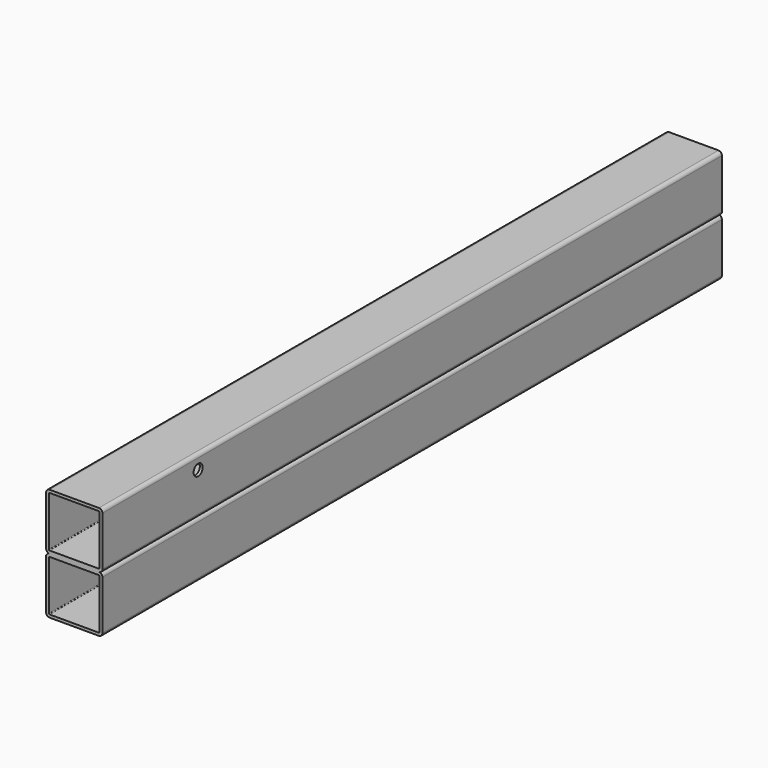
from build123d import *

# Parameters (mm, degrees)
F1_DEPTH = 1100
F2_R     = 8
F3_DEPTH = 80.001


with BuildPart() as f1:
    # F0 (on Front) → F1 (new body)
    with BuildSketch(Plane.XZ):
        with BuildLine():
            ThreePointArc((40, 35), (38.535534, 38.535534), (35, 40))
            Line((35, 40), (-35, 40))
            ThreePointArc((-35, 40), (-38.535534, 38.535534), (-40, 35))
            Line((-40, 35), (-40, -35))
            ThreePointArc((-40, -35), (-38.535534, -38.535534), (-35, -40))
            Line((-35, -40), (35, -40))
            ThreePointArc((35, -40), (38.535534, -38.535534), (40, -35))
            Line((40, -35), (40, 35))
        make_face()
        with BuildLine():
            ThreePointArc((-36, 35), (-35.707107, 35.707107), (-35, 36))
            Line((-35, 36), (35, 36))
            ThreePointArc((35, 36), (35.707107, 35.707107), (36, 35))
            Line((36, 35), (36, -35))
            ThreePointArc((36, -35), (35.707107, -35.707107), (35, -36))
            Line((35, -36), (-35, -36))
            ThreePointArc((-35, -36), (-35.707107, -35.707107), (-36, -35))
            Line((-36, -35), (-36, 35))
        make_face(mode=Mode.SUBTRACT)
        with BuildLine():
            ThreePointArc((40, -45), (38.535534, -41.464466), (35, -40))
            Line((35, -40), (-35, -40))
            ThreePointArc((-35, -40), (-38.535534, -41.464466), (-40, -45))
            Line((-40, -45), (-40, -115))
            ThreePointArc((-40, -115), (-38.535534, -118.535534), (-35, -120))
            Line((-35, -120), (35, -120))
            ThreePointArc((35, -120), (38.535534, -118.535534), (40, -115))
            Line((40, -115), (40, -45))
        make_face()
        with BuildLine():
            ThreePointArc((-36, -45), (-35.707107, -44.292893), (-35, -44))
            Line((-35, -44), (35, -44))
            ThreePointArc((35, -44), (35.707107, -44.292893), (36, -45))
            Line((36, -45), (36, -115))
            ThreePointArc((36, -115), (35.707107, -115.707107), (35, -116))
            Line((35, -116), (-35, -116))
            ThreePointArc((-35, -116), (-35.707107, -115.707107), (-36, -115))
            Line((-36, -115), (-36, -45))
        make_face(mode=Mode.SUBTRACT)
    extrude(amount=-F1_DEPTH)

    # F2 (on face) → F3 (cut, through all)
    with BuildSketch(Plane.YZ.offset(40)):
        with Locations((170, 20)):
            Circle(F2_R)
    extrude(amount=-F3_DEPTH, mode=Mode.SUBTRACT)


solid = f1.part
